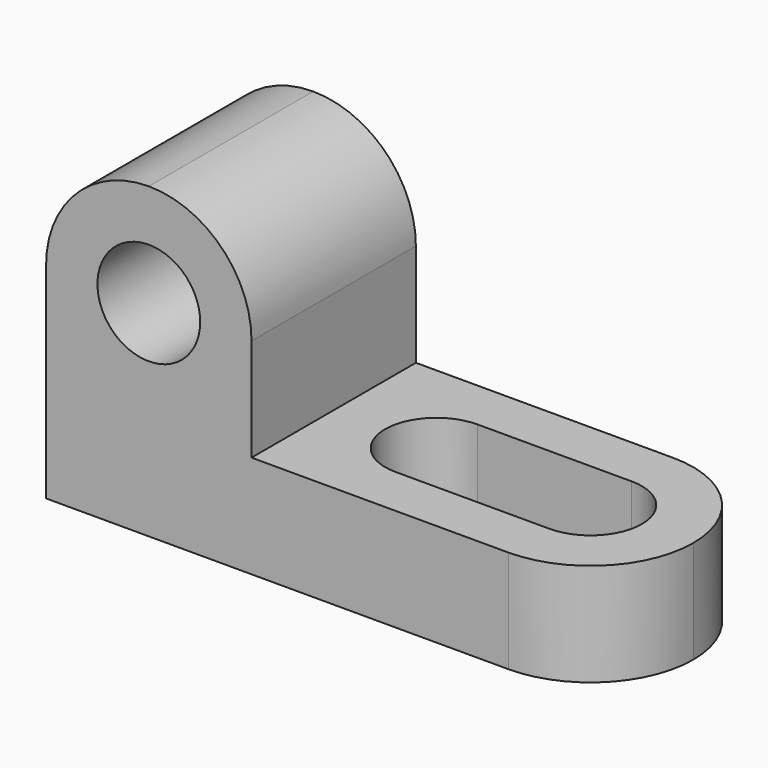
from build123d import *

# Parameters (mm, degrees)
F0_R     = 25.4
F1_DEPTH = 101.6
F3_DEPTH = 50.801


with BuildPart() as f1:
    # F0 (on Front) → F1 (new body)
    with BuildSketch(Plane.XZ):
        with BuildLine():
            ThreePointArc((50.8, 152.4), (14.8789755157, 137.5210244843), (0, 101.6))
            ThreePointArc((0, 101.6), (50.8, 50.8), (101.6, 101.6))
            ThreePointArc((101.6, 101.6), (86.7210244843, 137.5210244843), (50.8, 152.4))
        make_face()
        with Locations((50.8, 101.6)):
            Circle(F0_R, mode=Mode.SUBTRACT)
        with BuildLine():
            Line((0, 101.6), (0, 0))
            Line((0, 0), (279.4, 0))
            Line((279.4, 0), (279.4, 50.8))
            Line((279.4, 50.8), (101.6, 50.8))
            Line((101.6, 50.8), (101.6, 101.6))
            ThreePointArc((101.6, 101.6), (50.8, 50.8), (0, 101.6))
        make_face()
    extrude(amount=F1_DEPTH)

    # F2 (on face) → F3 (cut, through all)
    with BuildSketch(Plane.XY.offset(50.8)):
        with BuildLine():
            Line((228.6, -25.4), (184.6059094878, -25.4))
            ThreePointArc((184.6059094878, -25.4), (179.5309680245, -37.6519925088), (177.8, -50.8))
            ThreePointArc((177.8, -50.8), (179.5309680245, -63.9480074912), (184.6059094878, -76.2))
            Line((184.6059094878, -76.2), (228.6, -76.2))
            ThreePointArc((228.6, -76.2), (254, -50.8), (228.6, -25.4))
        make_face()
        with BuildLine():
            ThreePointArc((177.8, -50.8), (179.5309680245, -37.6519925088), (184.6059094878, -25.4))
            Line((184.6059094878, -25.4), (152.4, -25.4))
            ThreePointArc((152.4, -25.4), (127, -50.8), (152.4, -76.2))
            Line((152.4, -76.2), (184.6059094878, -76.2))
            ThreePointArc((184.6059094878, -76.2), (179.5309680245, -63.9480074912), (177.8, -50.8))
        make_face()
        with BuildLine():
            ThreePointArc((228.6, 0), (264.5210244843, -14.8789755157), (279.4, -50.8))
            Line((279.4, -50.8), (279.4, 0))
            Line((279.4, 0), (228.6, 0))
        make_face()
        with BuildLine():
            Line((279.4, -101.6), (279.4, -50.8))
            ThreePointArc((279.4, -50.8), (264.5210244843, -86.7210244843), (228.6, -101.6))
            Line((228.6, -101.6), (279.4, -101.6))
        make_face()
    extrude(amount=-F3_DEPTH, mode=Mode.SUBTRACT)


solid = f1.part
